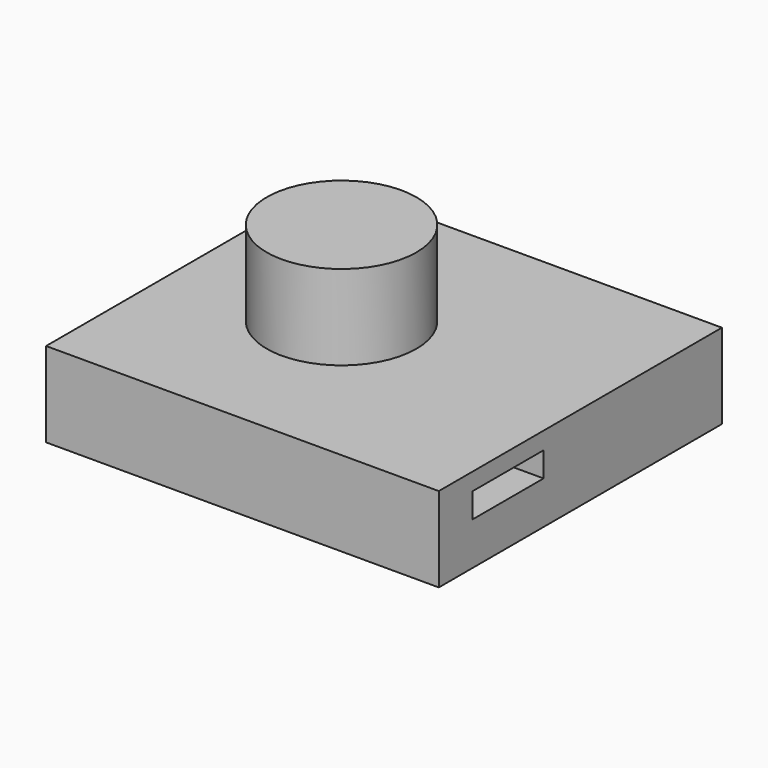
from build123d import *

# Parameters (mm, degrees)
F0_W     = 92.1698585153
F0_H     = 105.9397310019
F1_DEPTH = 25.4
F2_R     = 22.4003702497
F3_DEPTH = 25.4
F4_DEPTH = 25.4
F5_W     = 26.5126917511
F5_H     = 7.429022342
F6_DEPTH = 117.5708585153


with BuildPart() as f1:
    # F0 (on Top) → F1 (new body)
    with BuildSketch(Plane.XY):
        Rectangle(F0_W, F0_H)
    extrude(amount=F1_DEPTH)

    # F2 (on face) → F3 (join)
    with BuildSketch(Plane.XY.offset(25.4)):
        Circle(F2_R)
    extrude(amount=F3_DEPTH)

    # F4 (add): a face of the model
    f4_faces = [f1.faces().sort_by_distance(p)[0] for p in [
        (46.0849292576, 0, 12.7),
    ]]
    extrude(f4_faces, amount=F4_DEPTH)

    # F5 (on face) → F6 (cut, through all)
    with BuildSketch(Plane.YZ.offset(71.4849292576)):
        with Locations((-27.0254462957, 16.5118221194)):
            Rectangle(F5_W, F5_H)
    extrude(amount=-F6_DEPTH, mode=Mode.SUBTRACT)


solid = f1.part
